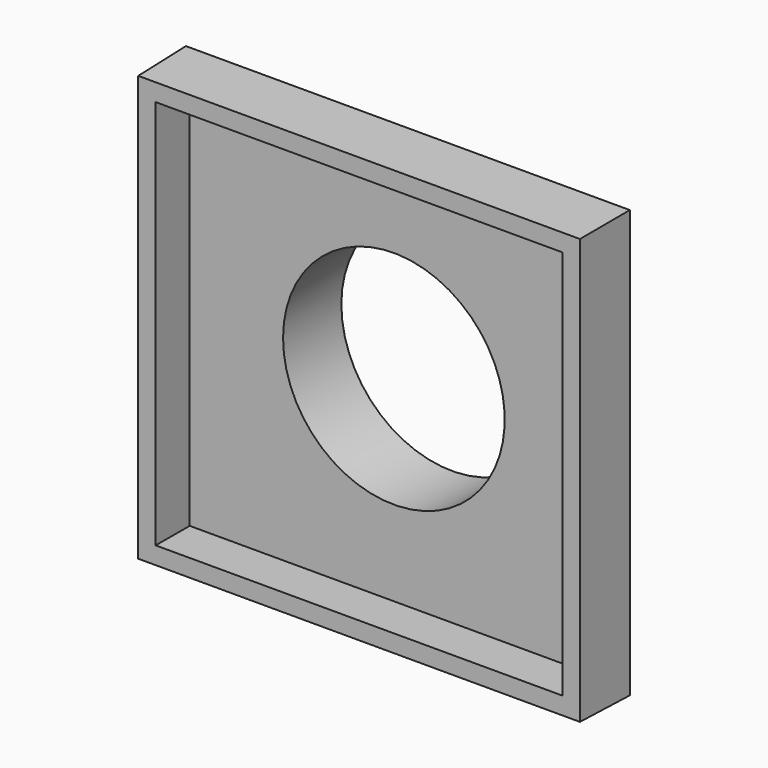
from build123d import *

# Parameters (mm, degrees)
F0_W     = 101.726
F0_H     = 97.916
F0_W_2   = 93.726
F0_H_2   = 89.916
F1_DEPTH = 13.97
F1_TAPER = 1
F2_T     = -4
F3_R     = 29.21
F3_R_2   = 25.4
F4_DEPTH = 12.7
F5_DEPTH = 4


with BuildPart() as f1:
    # F0 (on Front) → F1 (new body)
    with BuildSketch(Plane.XZ):
        Rectangle(F0_W, F0_H)
        Rectangle(F0_W_2, F0_H_2, mode=Mode.SUBTRACT)
        Rectangle(F0_W_2, F0_H_2)
    extrude(amount=F1_DEPTH, taper=F1_TAPER)

    # F2
    f2_openings = [f1.faces().sort_by_distance(p)[0] for p in [
        (0, -13.97, 0),
    ]]
    offset(amount=F2_T, openings=f2_openings)

    # F3 (on face) → F4 (join)
    with BuildSketch(Plane(origin=(0, 0, 0), x_dir=(-1, 0, 0), z_dir=(0, 1, 0))):
        Circle(F3_R)
        Circle(F3_R_2, mode=Mode.SUBTRACT)
    extrude(amount=F4_DEPTH)

    # F5 (cut, through all): a face of the model
    f5_faces = [f1.faces().sort_by_distance(p)[0] for p in [
        (0, 0, 0),
    ]]
    extrude(f5_faces, amount=-F5_DEPTH, mode=Mode.SUBTRACT)


solid = f1.part
